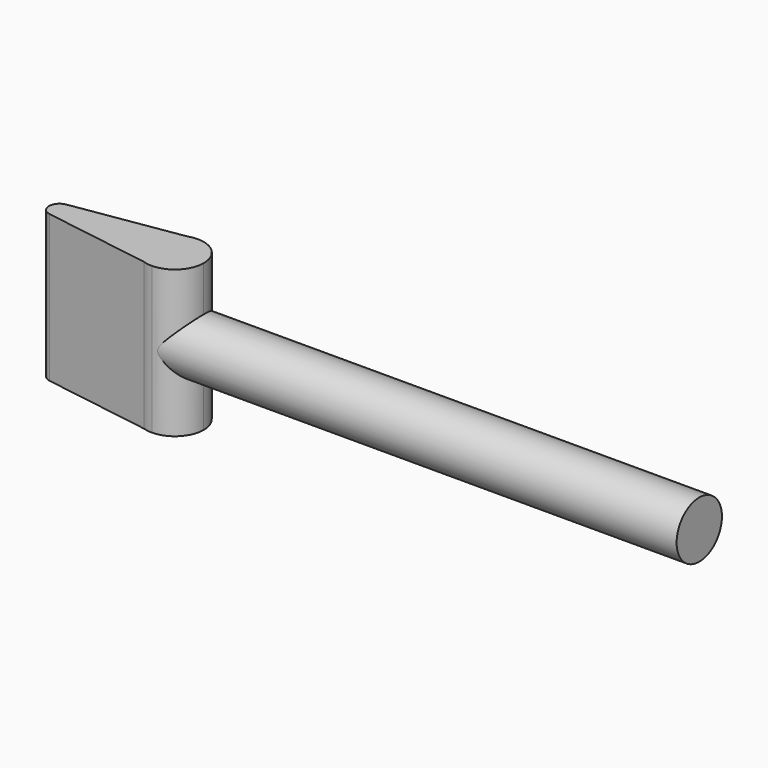
from build123d import *

# Parameters (mm, degrees)
F1_DEPTH      = 14
F1_DEPTH_BACK = 14
F2_R          = 5.401545
F3_DEPTH      = 100


with BuildPart() as f1:
    # F0 (on Top) → F1 (new body, two sides)
    with BuildSketch(Plane.XY) as f1_sk:
        with BuildLine():
            ThreePointArc((-22.312058, -1.975505), (-20.700792, -1.520545), (-20, 0))
            ThreePointArc((-20, 0), (-20.700792, 1.520545), (-22.312058, 1.975505))
            ThreePointArc((-22.312058, 1.975505), (-24, 0), (-22.312058, -1.975505))
        make_face()
        with BuildLine():
            ThreePointArc((-22.312058, 1.975505), (-20.700792, 1.520545), (-20, 0))
            ThreePointArc((-20, 0), (-20.700792, -1.520545), (-22.312058, -1.975505))
            Line((-22.312058, -1.975505), (-1.695299, -5.232204))
            ThreePointArc((-1.695299, -5.232204), (-5.5, 0), (-1.695299, 5.232204))
            Line((-1.695299, 5.232204), (-22.312058, 1.975505))
        make_face()
        with BuildLine():
            Line((0, 5.5), (-1.695299, 5.232204))
            ThreePointArc((-1.695299, 5.232204), (-5.5, 0), (-1.695299, -5.232204))
            Line((-1.695299, -5.232204), (0, -5.5))
            ThreePointArc((0, -5.5), (3.889087, -3.889087), (5.5, 0))
            ThreePointArc((5.5, 0), (3.889087, 3.889087), (0, 5.5))
        make_face()
        with BuildLine():
            ThreePointArc((0, 5.5), (-0.85816, 5.432639), (-1.695299, 5.232204))
            Line((-1.695299, 5.232204), (0, 5.5))
        make_face()
        with BuildLine():
            Line((0, -5.5), (-1.695299, -5.232204))
            ThreePointArc((-1.695299, -5.232204), (-0.85816, -5.432639), (0, -5.5))
        make_face()
    extrude(amount=F1_DEPTH)
    extrude(f1_sk.sketch, amount=-F1_DEPTH_BACK)

    # F2 (on Right) → F3 (join)
    with BuildSketch(Plane.YZ):
        Circle(F2_R)
    extrude(amount=F3_DEPTH)


solid = f1.part
